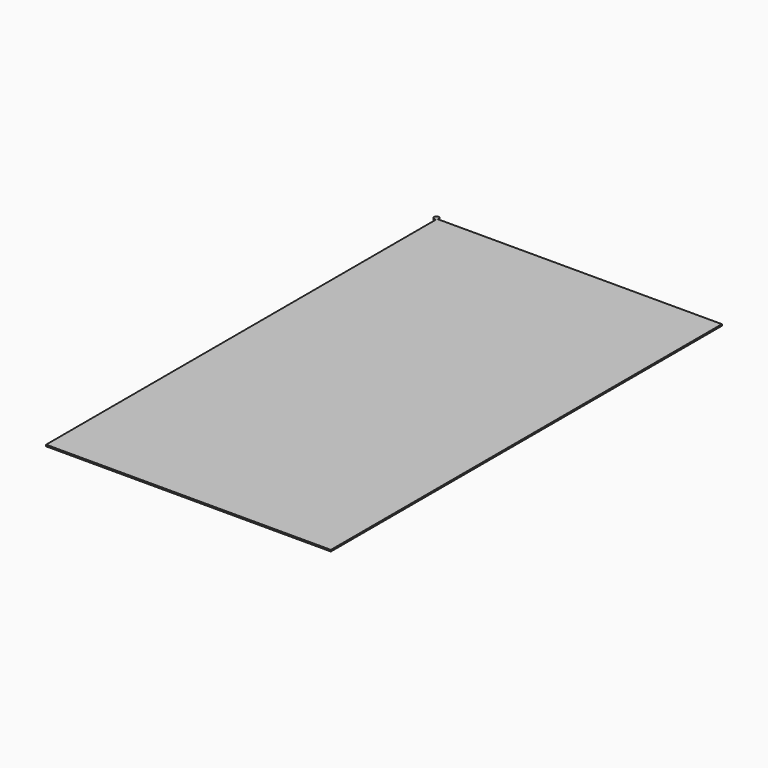
from build123d import *

# Parameters (mm, degrees)
CYLINDER_R     = 0.5
CYLINDER_DEPTH = 0.3
BOX004_W       = 57.5
BOX004_H       = 98.7
BOX004_DEPTH   = 0.3


with BuildPart() as cylinder:
    # Cylinder → Cylinder (new body)
    with BuildSketch(Plane(origin=(-4.3, 0.9, 10.3), x_dir=(1, 0, 0), z_dir=(0, 0, 1))):
        Circle(CYLINDER_R)
    extrude(amount=CYLINDER_DEPTH)


with BuildPart() as displayframe001:
    # Box004 → Box004 (new body)
    with BuildSketch(Plane(origin=(-4, -98, 10.3), x_dir=(1, 0, 0), z_dir=(0, 0, 1))):
        with Locations((28.75, 49.35)):
            Rectangle(BOX004_W, BOX004_H)
    extrude(amount=BOX004_DEPTH)

    # Fusion001: union Cylinder
    add(cylinder.part)


solid = displayframe001.part
